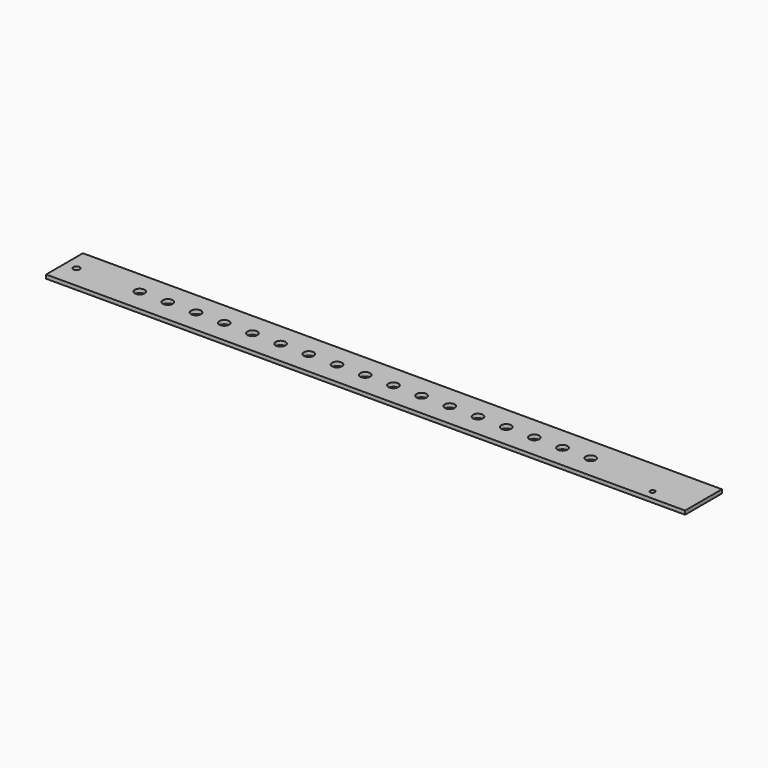
from build123d import *

# Parameters (mm, degrees)
F0_W     = 300
F0_H     = 24.5
F0_R     = 2.65
F1_DEPTH = 2
F2_DEPTH = 10
F3_DEPTH = 30
F4_R     = 1.7
F5_DEPTH = 2
F6_R     = 1.25
F7_DEPTH = 2


with BuildPart() as f1:
    # F0 (on Top) → F1 (new body)
    with BuildSketch(Plane.XY):
        Rectangle(F0_W, F0_H)
        with Locations((-120, 0)):
            Circle(F0_R, mode=Mode.SUBTRACT)
        with Locations((-105, 0)):
            Circle(F0_R, mode=Mode.SUBTRACT)
        with Locations((-90, 0)):
            Circle(F0_R, mode=Mode.SUBTRACT)
        with Locations((-75, 0)):
            Circle(F0_R, mode=Mode.SUBTRACT)
        with Locations((-60, 0)):
            Circle(F0_R, mode=Mode.SUBTRACT)
        with Locations((-45, 0)):
            Circle(F0_R, mode=Mode.SUBTRACT)
        with Locations((-30, 0)):
            Circle(F0_R, mode=Mode.SUBTRACT)
        with Locations((-15, 0)):
            Circle(F0_R, mode=Mode.SUBTRACT)
        Circle(F0_R, mode=Mode.SUBTRACT)
        with Locations((15, 0)):
            Circle(F0_R, mode=Mode.SUBTRACT)
        with Locations((30, 0)):
            Circle(F0_R, mode=Mode.SUBTRACT)
        with Locations((45, 0)):
            Circle(F0_R, mode=Mode.SUBTRACT)
        with Locations((60, 0)):
            Circle(F0_R, mode=Mode.SUBTRACT)
        with Locations((75, 0)):
            Circle(F0_R, mode=Mode.SUBTRACT)
        with Locations((90, 0)):
            Circle(F0_R, mode=Mode.SUBTRACT)
        with Locations((105, 0)):
            Circle(F0_R, mode=Mode.SUBTRACT)
        with Locations((120, 0)):
            Circle(F0_R, mode=Mode.SUBTRACT)
    extrude(amount=F1_DEPTH)

    # F2 (add): a face of the model
    f2_faces = [f1.faces().sort_by_distance(p)[0] for p in [
        (-150, 0, 1),
    ]]
    extrude(f2_faces, amount=F2_DEPTH)

    # F3 (add): a face of the model
    f3_faces = [f1.faces().sort_by_distance(p)[0] for p in [
        (150, 0, 1),
    ]]
    extrude(f3_faces, amount=F3_DEPTH)

    # F4 (on face) → F5 (cut, through all)
    with BuildSketch(Plane.XY.offset(2)):
        with Locations((-153.6, 0)):
            Circle(F4_R)
    extrude(amount=-F5_DEPTH, mode=Mode.SUBTRACT)

    # F6 (on face) → F7 (cut, through all)
    with BuildSketch(Plane.XY.offset(2)):
        with Locations((158.75, -7.25)):
            Circle(F6_R)
    extrude(amount=-F7_DEPTH, mode=Mode.SUBTRACT)


solid = f1.part
